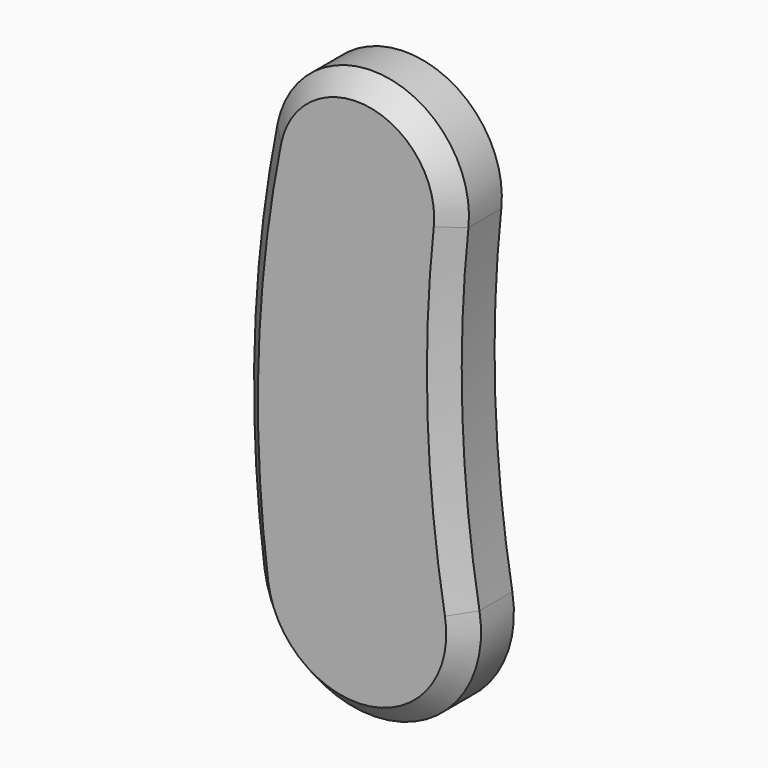
from build123d import *

# Parameters (mm, degrees)
F1_DEPTH = 25
F2_SIZE  = 8


with BuildPart() as f1:
    # F0 (on Front) → F1 (new body)
    with BuildSketch(Plane.XZ):
        with BuildLine():
            ThreePointArc((44.338796, -142.31422), (37.264628, -73.423467), (39.777191, -4.216049))
            ThreePointArc((39.777191, -4.216049), (6.038308, 39.541609), (-39.222591, 7.847826))
            ThreePointArc((-39.222591, 7.847826), (-48.669812, -73.808567), (-44.610309, -155.909341))
            ThreePointArc((-44.610309, -155.909341), (6.798916, -194.483421), (44.338796, -142.31422))
        make_face()
    extrude(amount=F1_DEPTH)

    # F2
    f2_edges = [f1.edges().sort_by_distance(p)[0] for p in [
        (6.038308, -25, 39.541609),
    ]]
    chamfer(f2_edges, length=F2_SIZE)


solid = f1.part
